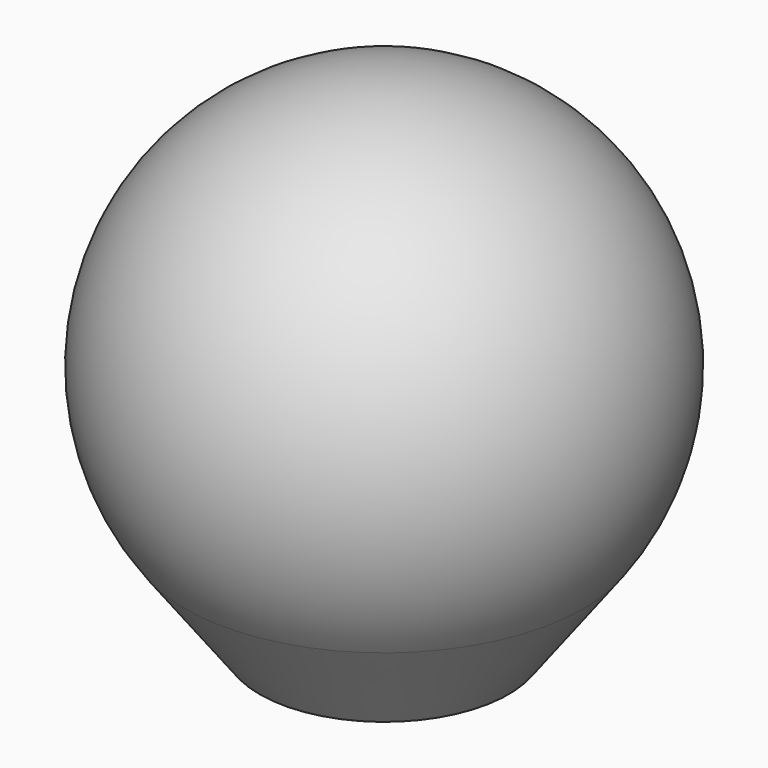
from build123d import *


with BuildPart() as f1:
    # F0 (on Front) → F1 (revolve)
    with BuildSketch(Plane.XZ):
        with BuildLine():
            Line((0, 6.1), (0, 9.6))
            ThreePointArc((0, 9.6), (-5.366563, 6.283282), (-4.8, 0))
            Line((-4.8, 0), (-3, -2.4))
            Line((-3, -2.4), (-2, -2.4))
            Line((-2, -2.4), (-2, 1.6))
            Line((-2, 1.6), (-1.5, 1.6))
            ThreePointArc((-1.5, 1.6), (-2.371708, 4.390569), (0, 6.1))
        make_face()
    revolve(axis=Axis((0, 0, -3.750976), (0, 0, -1)))


solid = f1.part
